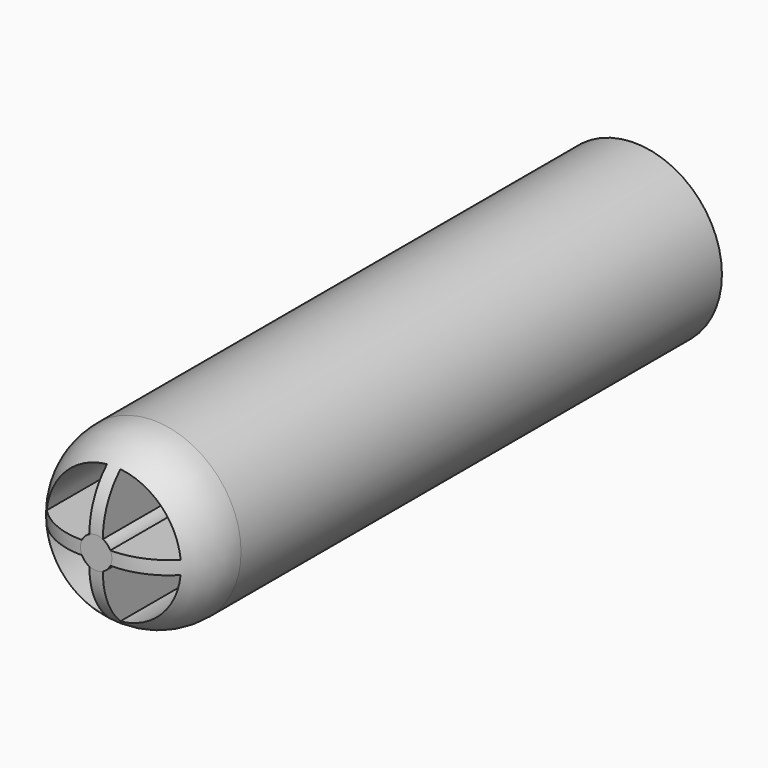
from build123d import *

# Parameters (mm, degrees)
F0_R     = 6.5
F1_DEPTH = 50
F2_R     = 5.334
F4_DEPTH = 40
F5_R     = 5.5
F6_DEPTH = 0.5


with BuildPart() as f1:
    # F0 (on Front) → F1 (new body)
    with BuildSketch(Plane.XZ):
        Circle(F0_R)
        Circle(F0_R)
    extrude(amount=F1_DEPTH)

    # F2
    f2_edges = [f1.edges().sort_by_distance(p)[0] for p in [
        (-6.5, -50, 0),
    ]]
    fillet(f2_edges, radius=F2_R)

    # F3 (on face) → F4 (cut)
    with BuildSketch(Plane.XZ.offset(50)):
        with BuildLine():
            Line((-0.5, 1.0533546411), (-0.5, 4.9749371855))
            ThreePointArc((-0.5, 4.9749371855), (-3.5355339059, 3.5355339059), (-4.9749371855, 0.5))
            Line((-4.9749371855, 0.5), (-1.0533546411, 0.5))
            ThreePointArc((-1.0533546411, 0.5), (-0.8244865069, 0.8244865069), (-0.5, 1.0533546411))
        make_face()
        with BuildLine():
            Line((1.0533546411, 0.5), (4.9749371855, 0.5))
            ThreePointArc((4.9749371855, 0.5), (3.5355339059, 3.5355339059), (0.5, 4.9749371855))
            Line((0.5, 4.9749371855), (0.5, 1.0533546411))
            ThreePointArc((0.5, 1.0533546411), (0.8244865069, 0.8244865069), (1.0533546411, 0.5))
        make_face()
        with BuildLine():
            ThreePointArc((0.5, -4.9749371855), (3.5355339059, -3.5355339059), (4.9749371855, -0.5))
            Line((4.9749371855, -0.5), (1.0533546411, -0.5))
            ThreePointArc((1.0533546411, -0.5), (0.8244865069, -0.8244865069), (0.5, -1.0533546411))
            Line((0.5, -1.0533546411), (0.5, -4.9749371855))
        make_face()
        with BuildLine():
            ThreePointArc((-4.9749371855, -0.5), (-3.5355339059, -3.5355339059), (-0.5, -4.9749371855))
            Line((-0.5, -4.9749371855), (-0.5, -1.0533546411))
            ThreePointArc((-0.5, -1.0533546411), (-0.8244865069, -0.8244865069), (-1.0533546411, -0.5))
            Line((-1.0533546411, -0.5), (-4.9749371855, -0.5))
        make_face()
    extrude(amount=-F4_DEPTH, mode=Mode.SUBTRACT)

    # F5 (on face) → F6 (cut)
    with BuildSketch(Plane(origin=(0, 0, 0), x_dir=(-1, 0, 0), z_dir=(0, 1, 0))):
        Circle(F5_R)
    extrude(amount=-F6_DEPTH, mode=Mode.SUBTRACT)


solid = f1.part
